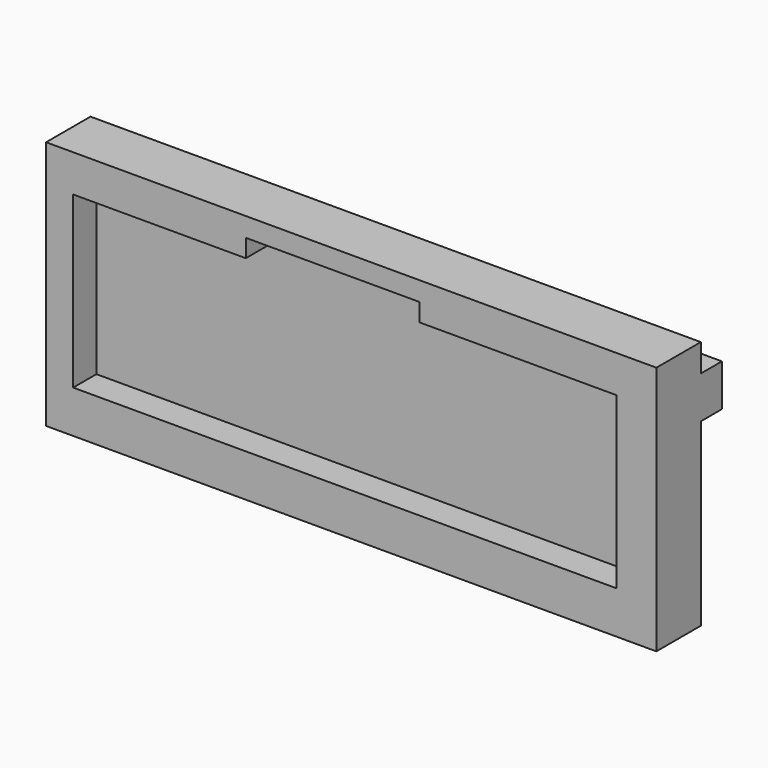
from build123d import *

# Parameters (mm, degrees)
F0_W     = 293.2697534561
F0_H     = 120.0150027871
F1_DEPTH = 12.7
F2_W     = 19.1973745823
F2_H     = 81.7032158375
F2_W_2   = 13.0126923323
F3_DEPTH = 13.97
F4_W     = 293.2697534561
F4_H     = 20.2290192246
F5_DEPTH = 12.7
F6_W     = 83.4743231535
F6_H     = 13.97
F7_DEPTH = 8.636


with BuildPart() as f1:
    # F0 (on Front) → F1 (new body)
    with BuildSketch(Plane.XZ):
        Rectangle(F0_W, F0_H)
    extrude(amount=F1_DEPTH)

    # F2 (on face) → F3 (join)
    with BuildSketch(Plane.XZ.offset(12.7)):
        Polygon((146.6348767281, 60.0075013936), (-146.6348767281, 60.0075013936), (-146.6348767281, 42.1536527574), (-133.6221843958, 42.1536527574), (127.4375021458, 42.1536527574), (146.6348767281, 42.1536527574), align=None)
        with Locations((137.0361894369, 1.3020448387)):
            Rectangle(F2_W, F2_H)
        with Locations((-140.1285305619, 1.3020448387)):
            Rectangle(F2_W_2, F2_H)
        Polygon((-133.6221843958, -39.5495630801), (-146.6348767281, -39.5495630801), (-146.6348767281, -60.0075013936), (146.6348767281, -60.0075013936), (146.6348767281, -39.5495630801), (127.4375021458, -39.5495630801), align=None)
    extrude(amount=F3_DEPTH)

    # F4 (on face) → F5 (join)
    with BuildSketch(Plane(origin=(0, 0, 0), x_dir=(-1, 0, 0), z_dir=(0, 1, 0))):
        with Locations((0, 36.5786291659)):
            Rectangle(F4_W, F4_H)
    extrude(amount=F5_DEPTH)

    # F6 (on face) → F7 (cut)
    with BuildSketch(Plane(origin=(0, 0, 42.1536527574), x_dir=(1, 0, 0), z_dir=(0, 0, -1))):
        with Locations((-8.9395232499, 19.685)):
            Rectangle(F6_W, F6_H)
    extrude(amount=-F7_DEPTH, mode=Mode.SUBTRACT)


solid = f1.part
